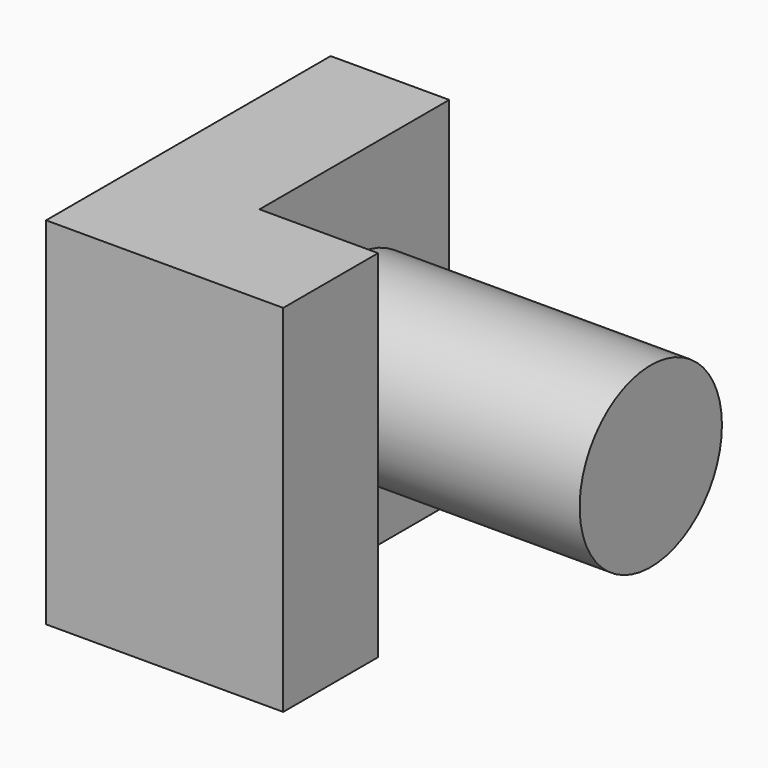
from build123d import *

# Parameters (mm, degrees)
F1_DEPTH = 76.2
F3_DEPTH = 63.5


with BuildPart() as f1:
    # F0 (on Top) → F1 (new body)
    with BuildSketch(Plane.XY):
        Polygon((-15.183406, 22.980699), (-40.583406, 22.980699), (-40.583406, -53.219301), (10.216594, -53.219301), (10.216594, -27.819301), (-15.183406, -27.819301), align=None)
    extrude(amount=F1_DEPTH)

    # F2 (on face) → F3 (join)
    with BuildSketch(Plane.YZ.offset(-15.183406)):
        with BuildLine():
            ThreePointArc((-21.469301, 38.1), (-2.419301, 19.05), (16.630699, 38.1))
            ThreePointArc((16.630699, 38.1), (-2.419301, 57.15), (-21.469301, 38.1))
        make_face()
    extrude(amount=F3_DEPTH)


solid = f1.part
